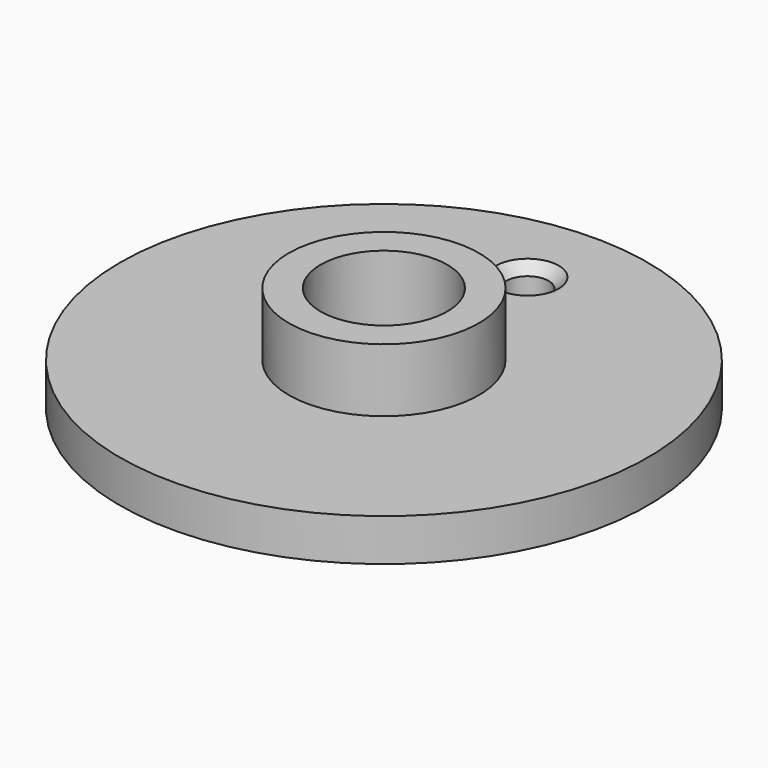
from build123d import *

# Parameters (mm, degrees)
F2_R     = 3.175
F3_DEPTH = 15.876
F4_SIZE  = 1.524


with BuildPart() as f1:
    # F0 (on Front) → F1 (revolve)
    with BuildSketch(Plane.XZ):
        Polygon((-39.6875, 0), (-9.525, 0), (-9.525, 15.875), (-14.2875, 15.875), (-14.2875, 6.35), (-39.6875, 6.35), align=None)
    revolve(axis=Axis((0, 0, 22.6741275327), (0, 0, 1)))

    # F2 (on Top) → F3 (cut, through all)
    with BuildSketch(Plane.XY):
        with Locations((0, 26.9875)):
            Circle(F2_R)
    extrude(amount=F3_DEPTH, mode=Mode.SUBTRACT)

    # F4
    f4_edges = [f1.edges().sort_by_distance(p)[0] for p in [
        (-3.175, 26.9875, 6.35),
    ]]
    chamfer(f4_edges, length=F4_SIZE)


solid = f1.part
